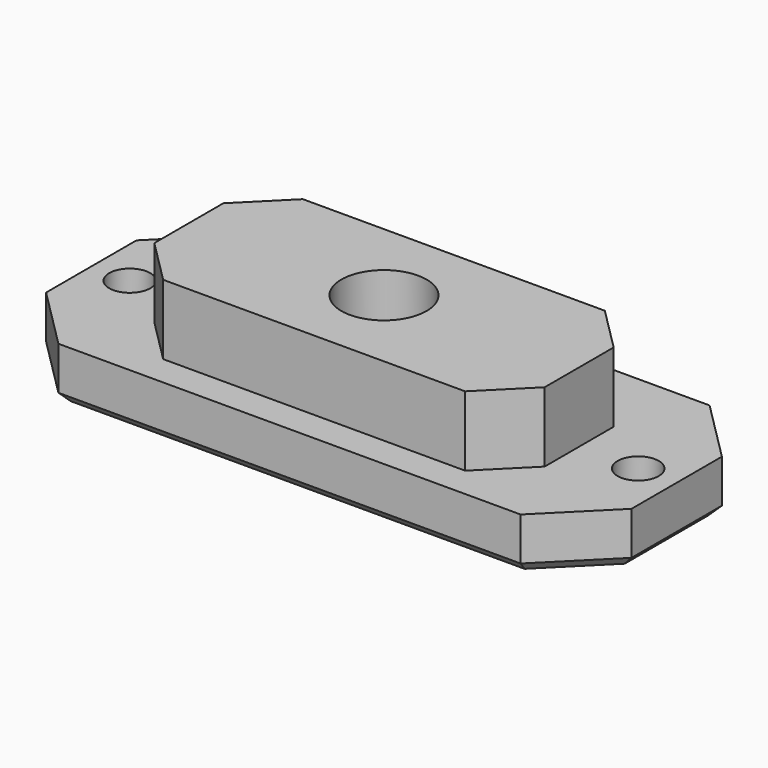
from build123d import *

# Parameters (mm, degrees)
F1_DEPTH = 12
F0_R     = 2
F2_DEPTH = 5.2
F3_SIZE  = 1
F4_R     = 4.15
F5_DEPTH = 8
F6_R     = 3
F7_DEPTH = 3


with BuildPart() as f1:
    # F0 (on Top) → F1 (new body)
    with BuildSketch(Plane.XY):
        Polygon((14.7, 8.5), (-14.7, 8.5), (-19, 4.2), (-19, -4.2), (-14.7, -8.5), (14.7, -8.5), (19, -4.2), (19, 4.2), align=None)
    extrude(amount=F1_DEPTH)

    # F0 (on Top) → F2 (join)
    with BuildSketch(Plane.XY):
        Polygon((22.5, 11.5), (-22.5, 11.5), (-28.5, 5.5), (-28.5, -5.5), (-22.5, -11.5), (22.5, -11.5), (28.5, -5.5), (28.5, 5.5), align=None)
        with Locations((-24.75, 0)):
            Circle(F0_R, mode=Mode.SUBTRACT)
        Polygon((-19, 4.2), (-14.7, 8.5), (14.7, 8.5), (19, 4.2), (19, -4.2), (14.7, -8.5), (-14.7, -8.5), (-19, -4.2), align=None, mode=Mode.SUBTRACT)
        with Locations((24.75, 0)):
            Circle(F0_R, mode=Mode.SUBTRACT)
    extrude(amount=F2_DEPTH)

    # F3
    f3_edges = [f1.edges().sort_by_distance(p)[0] for p in [
        (0, -11.5, 0),
        (-25.5, -8.5, 0),
        (-28.5, 0, 0),
        (-25.5, 8.5, 0),
        (0, 11.5, 0),
        (25.5, 8.5, 0),
        (28.5, 0, 0),
        (25.5, -8.5, 0),
    ]]
    chamfer(f3_edges, length=F3_SIZE)

    # F4 (on face) → F5 (cut)
    with BuildSketch(Plane.XY.offset(12)):
        Circle(F4_R)
    extrude(amount=-F5_DEPTH, mode=Mode.SUBTRACT)

    # F6 (on Top) → F7 (cut)
    with BuildSketch(Plane.XY):
        with Locations((-23.793586, 0)):
            Circle(F6_R)
        with Locations((23.756452, 0)):
            Circle(F6_R)
    extrude(amount=F7_DEPTH, mode=Mode.SUBTRACT)


solid = f1.part
